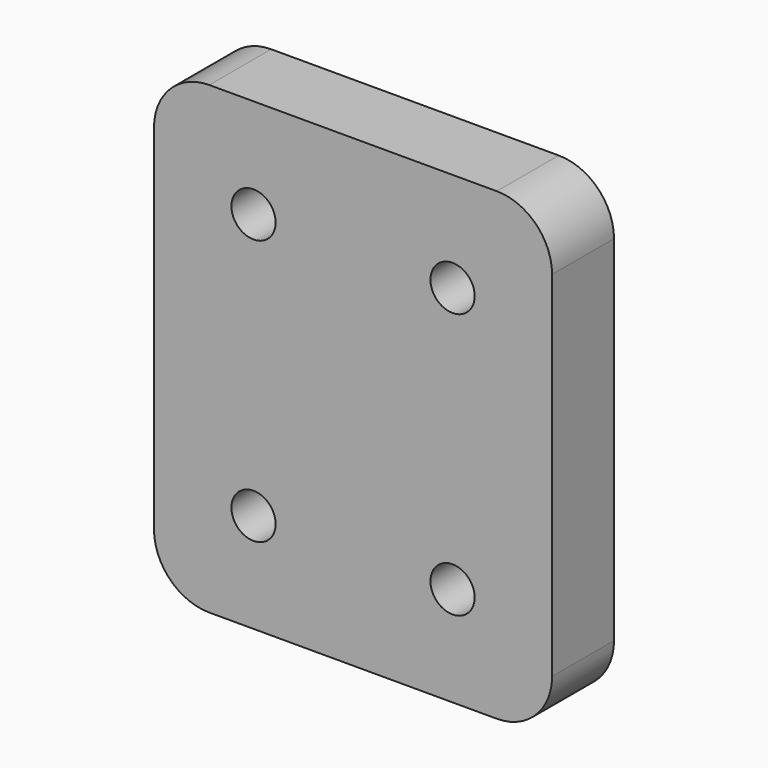
from build123d import *

# Parameters (mm, degrees)
F0_W     = 36
F0_H     = 42
F0_R     = 2
F1_DEPTH = 7
F2_R     = 5


with BuildPart() as f1:
    # F0 (on Front) → F1 (new body)
    with BuildSketch(Plane.XZ):
        with Locations((18, 21)):
            Rectangle(F0_W, F0_H)
        with Locations((9, 9)):
            Circle(F0_R, mode=Mode.SUBTRACT)
        with Locations((27, 9)):
            Circle(F0_R, mode=Mode.SUBTRACT)
        with Locations((9, 33)):
            Circle(F0_R, mode=Mode.SUBTRACT)
        with Locations((27, 33)):
            Circle(F0_R, mode=Mode.SUBTRACT)
    extrude(amount=F1_DEPTH)

    # F2
    f2_edges = [f1.edges().sort_by_distance(p)[0] for p in [
        (0, -3.5, 42),
        (0, -3.5, 0),
        (36, -3.5, 0),
        (36, -3.5, 42),
    ]]
    fillet(f2_edges, radius=F2_R)


solid = f1.part
